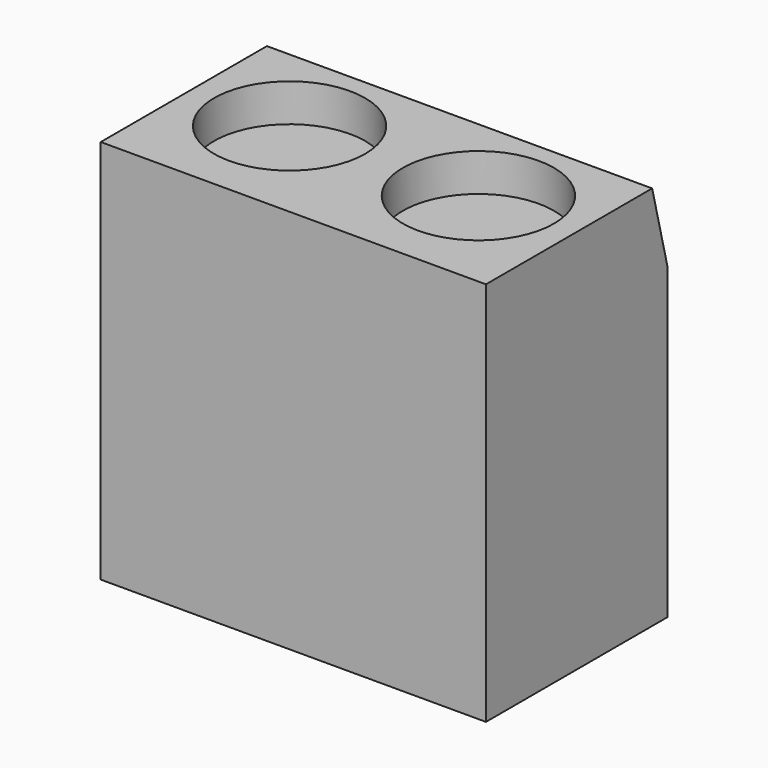
from build123d import *

# Parameters (mm, degrees)
SKETCH052_W       = 10.2
SKETCH052_H       = 10.2
PAD044_DEPTH      = 4
PAD044_DEPTH_BACK = 2
SKETCH053_R       = 2
POCKET004_DEPTH   = 1
CHAMFER006_SIZE2  = 2
CHAMFER006_SIZE   = 0.5
SKETCH049_W       = 4.3
SKETCH049_H       = 5
POCKET006_DEPTH   = 5


with BuildPart() as part:
    # Sketch052 (on Face1 of CopyFillet001) → Pad044 (new body, two sides)
    with BuildSketch(Plane(origin=(0, 9, 0), x_dir=(-1, 0, 0), z_dir=(0, 1, 0))) as pad044_sk:
        with Locations((0, 2)):
            Rectangle(SKETCH052_W, SKETCH052_H)
    extrude(amount=PAD044_DEPTH)
    extrude(pad044_sk.sketch, amount=-PAD044_DEPTH_BACK)

    # Sketch053 (on Face1 of Pad044) → Pocket004 (cut)
    with BuildSketch(Plane(origin=(0, 9, 7.1), x_dir=(1, 0, 0), z_dir=(0, 0, 1))):
        with Locations((-2.5, 1)):
            Circle(SKETCH053_R)
        with Locations((2.5, 1)):
            Circle(SKETCH053_R)
    extrude(amount=-POCKET004_DEPTH, mode=Mode.SUBTRACT)

    # Chamfer006
    chamfer006_edges = [part.edges().sort_by_distance(p)[0] for p in [
        (0, 13, 7.1),
    ]]
    chamfer006_side = part.faces().sort_by_distance((0, 10, 7.1))[0]
    chamfer(chamfer006_edges, length=CHAMFER006_SIZE, length2=CHAMFER006_SIZE2, reference=chamfer006_side)

    # Sketch049 (on Face8 of Chamfer006) → Pocket006 (cut)
    with BuildSketch(Plane(origin=(0, 13, 0), x_dir=(-1, 0, 0), z_dir=(0, 1, 0))):
        with Locations((-2.65, 0)):
            Rectangle(SKETCH049_W, SKETCH049_H)
        with Locations((2.65, 0)):
            Rectangle(SKETCH049_W, SKETCH049_H)
    extrude(amount=-POCKET006_DEPTH, mode=Mode.SUBTRACT)


solid = part.part
